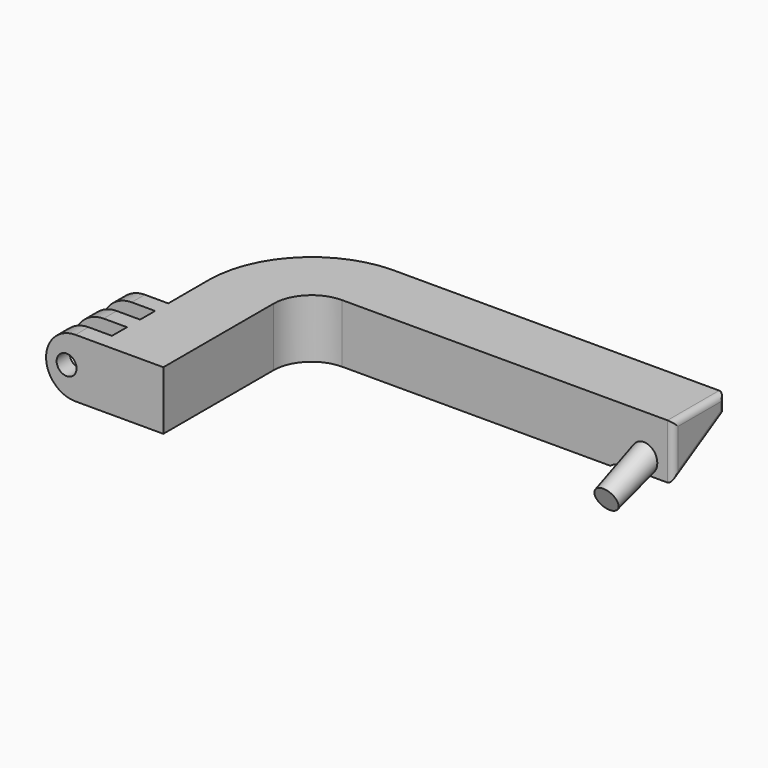
from build123d import *

# Parameters (mm, degrees)
PAD002_DEPTH    = 5
POCKET001_DEPTH = 41.001
SKETCH006_R     = 1.7
POCKET002_DEPTH = 41.001
POCKET003_DEPTH = 12
FILLET001_R     = 3
FILLET002_R     = 1


with BuildPart() as part:
    # Sketch004 → Pad002 (new body, symmetric)
    with BuildSketch(Plane.XY):
        with BuildLine():
            Line((0, 0), (0, 2.8))
            Line((0, 2.8), (9, 2.8))
            Line((9, 2.8), (9, 6))
            Line((9, 6), (0, 6))
            Line((0, 6), (0, 8.8))
            Line((0, 8.8), (9, 8.8))
            Line((9, 8.8), (9, 12))
            Line((9, 12), (0, 12))
            Line((0, 12), (0, 14.8))
            Line((0, 14.8), (9, 14.8))
            Line((9, 14.8), (9, 23.5))
            ThreePointArc((26.5, 41), (14.1256313292, 35.8743686708), (9, 23.5))
            Line((26.5, 41), (83, 41))
            Line((83, 41), (83, 30))
            Line((83, 30), (26.5, 30))
            ThreePointArc((26.5, 30), (21.9038059223, 28.0961940777), (20, 23.5))
            Line((20, 23.5), (20, 0))
            Line((20, 0), (0, 0))
        make_face()
    extrude(amount=PAD002_DEPTH, both=True)

    # Sketch005 (on Face18 of Pad002) → Pocket001 (cut, through all)
    with BuildSketch(Plane.XZ):
        with BuildLine():
            ThreePointArc((5, 5), (0, 0), (5, -5))
            Line((5, -6), (5, -5))
            Line((-1, -6), (5, -6))
            Line((-1, 6), (-1, -6))
            Line((5, 6), (-1, 6))
            Line((5, 6), (5, 5))
        make_face()
    extrude(amount=-POCKET001_DEPTH, mode=Mode.SUBTRACT)

    # Sketch006 (on Face2 of Pocket001) → Pocket002 (cut, through all)
    with BuildSketch(Plane.XZ):
        with Locations((3.5, 0)):
            Circle(SKETCH006_R)
    extrude(amount=-POCKET002_DEPTH, mode=Mode.SUBTRACT)

    # Sketch007 (on Face20 of Pocket002) → Revolution (revolve)
    with BuildSketch(Plane.YZ.offset(78)):
        Polygon((21.3046738147, -3.0383206522), (34.6684285365, 2.2847238185), (35.5, 0), (21.9887141013, -4.9177058938), align=None)
    revolve(axis=Axis((78, 4.1527111346, -11.4094800719), (0, 0.9396926208, 0.3420201433)))

    # Sketch008 (on Face20 of Revolution) → Pocket003 (cut)
    with BuildSketch(Plane.YZ.offset(83)):
        Polygon((30, -4.3490166725), (41, 2.0018362885), (41, -5), (30, -5), align=None)
    extrude(amount=-POCKET003_DEPTH, mode=Mode.SUBTRACT)

    # Fillet001
    fillet001_edges = [part.edges().sort_by_distance(p)[0] for p in [
        (71, 35.5, -1.17359),
    ]]
    fillet(fillet001_edges, radius=FILLET001_R)

    # Fillet002
    fillet002_edges = [part.edges().sort_by_distance(p)[0] for p in [
        (83, 30, 0.325492),
        (83, 35.5, 5),
        (83, 41, 3.500918),
        (83, 35.5, -1.17359),
    ]]
    fillet(fillet002_edges, radius=FILLET002_R)


solid = part.part
